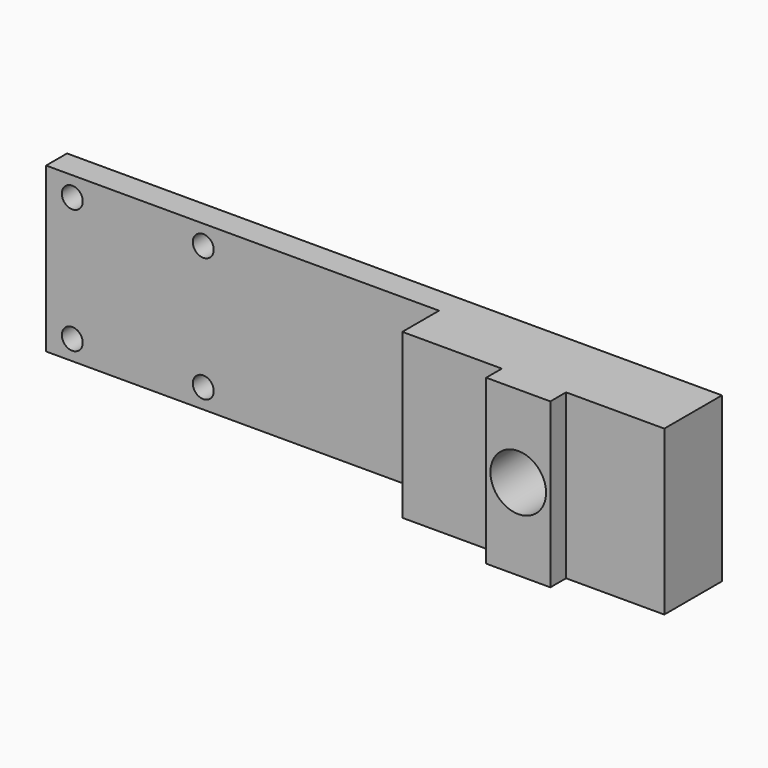
from build123d import *

# Parameters (mm, degrees)
F0_W     = 100
F0_H     = 25
F2_DEPTH = 4
F3_W     = 40
F3_H     = 25
F4_DEPTH = 11
F5_W     = 9.8
F5_H     = 25
F6_DEPTH = 3
F9_D     = 3.2
F10_D    = 3.2
F12_D    = 8.5
F14_D    = 3.2


with BuildPart() as f2:
    # F0 (on Front) → F2 (new body)
    with BuildSketch(Plane.XZ):
        with Locations((-50, 12.5)):
            Rectangle(F0_W, F0_H)
    extrude(amount=F2_DEPTH)

    # F3 (on Front) → F4 (join)
    with BuildSketch(Plane.XZ):
        with Locations((-20, 12.5)):
            Rectangle(F3_W, F3_H)
    extrude(amount=F4_DEPTH)

    # F5 (on face) → F6 (join)
    with BuildSketch(Plane.XZ.offset(11)):
        with Locations((-19.9, 12.5)):
            Rectangle(F5_W, F5_H)
    extrude(amount=F6_DEPTH)

    # F9 (through all)
    with Locations(Plane.XZ.offset(4)):
        with Locations((-96, 22)):
            Hole(F9_D / 2)

    # F10 (through all)
    with Locations(Plane.XZ.offset(4)):
        with Locations((-76, 22)):
            Hole(F10_D / 2)

    # F12 (through all)
    with Locations(Plane.XZ.offset(14)):
        with Locations((-19.9, 12.5)):
            Hole(F12_D / 2)

    # F14 (through all)
    with Locations(Plane.XZ.offset(4)):
        with Locations((-96, 3), (-76, 3)):
            Hole(F14_D / 2)


solid = f2.part
